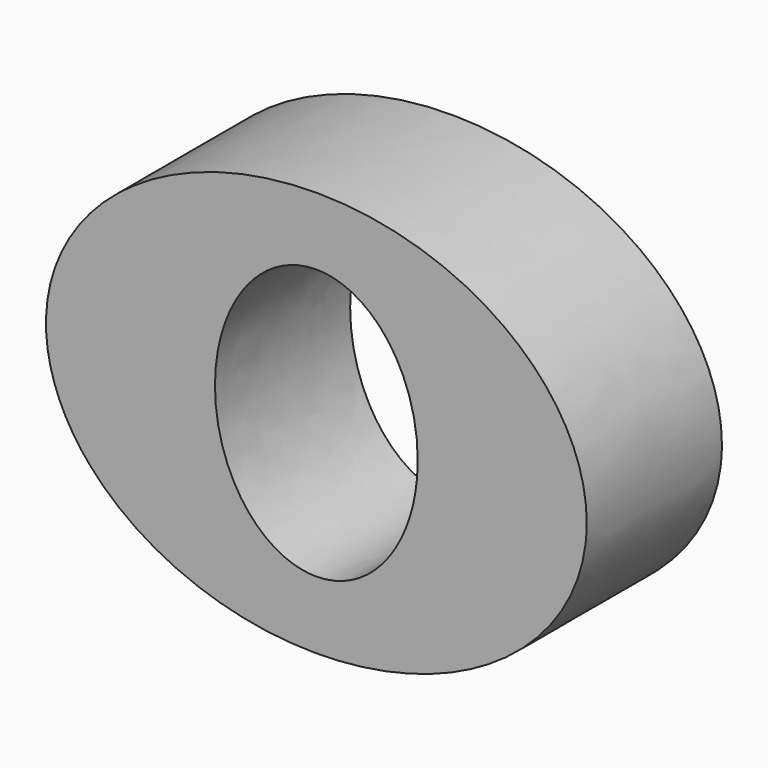
from build123d import *

# Parameters (mm, degrees)
F1_DEPTH = 25


with BuildPart() as f1:
    # F0 (on Front) → F1 (new body)
    with BuildSketch(Plane.XZ):
        with BuildLine():
            add(Edge.make_bspline(
                [(40, 0), (40, 51.961524), (-20, 25.980762), (-80, 0), (-20, -25.980762), (40, -51.961524), (40, 0)],
                knots=[0, 0, 0, 2.094395, 2.094395, 4.18879, 4.18879, 6.283185, 6.283185, 6.283185], degree=2, weights=[1, 0.5, 1, 0.5, 1, 0.5, 1]))
        make_face()
        with BuildLine():
            add(Edge.make_bspline(
                [(0, -20), (25.980762, -20), (12.990381, 10), (0, 40), (-12.990381, 10), (-25.980762, -20), (0, -20)],
                knots=[0, 0, 0, 2.094395, 2.094395, 4.18879, 4.18879, 6.283185, 6.283185, 6.283185], degree=2, weights=[1, 0.5, 1, 0.5, 1, 0.5, 1]))
        make_face(mode=Mode.SUBTRACT)
    extrude(amount=F1_DEPTH)


solid = f1.part
